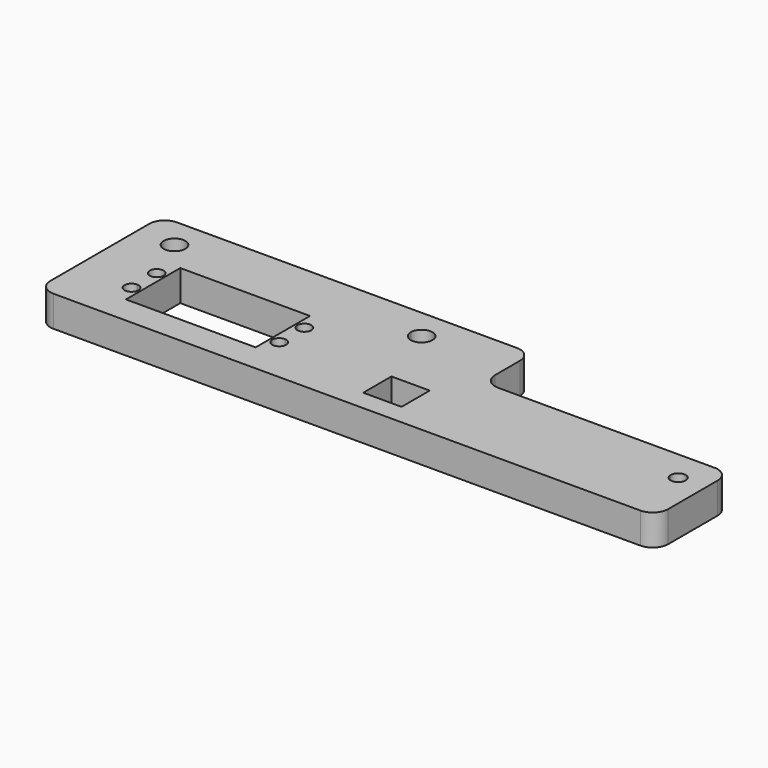
from build123d import *

# Parameters (mm, degrees)
F0_W      = 200
F0_H      = 50
F1_DEPTH  = 10
F2_W      = 42
F2_H      = 22
F3_DEPTH  = 10.001
F5_DEPTH  = 10.001
F7_DEPTH  = 10.001
F8_R      = 5
F11_W     = 80
F11_H     = 20
F9_W      = 12.4
F9_H      = 11.4
F12_DEPTH = 10.001
F13_R     = 5


with BuildPart() as f1:
    # F0 (on Top) → F1 (new body)
    with BuildSketch(Plane.XY):
        Rectangle(F0_W, F0_H)
    extrude(amount=F1_DEPTH)

    # F2 (on face) → F3 (cut, through all)
    with BuildSketch(Plane.XY.offset(10)):
        with Locations((-57.7500068545, -5)):
            Rectangle(F2_W, F2_H)
    extrude(amount=-F3_DEPTH, mode=Mode.SUBTRACT)

    # F4 (on face) → F5 (cut, through all)
    with BuildSketch(Plane.XY.offset(10)):
        with BuildLine():
            Line((-81.6500068545, -2.15), (-81.6500068545, 0.1))
            Line((-81.6500068545, 0.1), (-79.4000068545, 0.1))
            ThreePointArc((-79.4000068545, 0.1), (-83.2409971122, 1.6909902577), (-81.6500068545, -2.15))
        make_face()
        with BuildLine():
            Line((-79.4000068545, 0.1), (-81.6500068545, 0.1))
            Line((-81.6500068545, 0.1), (-81.6500068545, -2.15))
            ThreePointArc((-81.6500068545, -2.15), (-80.0590165969, -1.4909902577), (-79.4000068545, 0.1))
        make_face()
        with BuildLine():
            Line((-81.6500068545, -10.1), (-81.6500068545, -7.85))
            ThreePointArc((-81.6500068545, -7.85), (-83.2409971122, -11.6909902577), (-79.4000068545, -10.1))
            Line((-79.4000068545, -10.1), (-81.6500068545, -10.1))
        make_face()
        with BuildLine():
            ThreePointArc((-79.4000068545, -10.1), (-80.0590165969, -8.5090097423), (-81.6500068545, -7.85))
            Line((-81.6500068545, -7.85), (-81.6500068545, -10.1))
            Line((-81.6500068545, -10.1), (-79.4000068545, -10.1))
        make_face()
        with BuildLine():
            Line((-33.8500068545, 0.1), (-36.1000068545, 0.1))
            ThreePointArc((-36.1000068545, 0.1), (-35.4409971122, -1.4909902577), (-33.8500068545, -2.15))
            Line((-33.8500068545, -2.15), (-33.8500068545, 0.1))
        make_face()
        with BuildLine():
            ThreePointArc((-31.6000068545, 0.1), (-33.8500068545, 2.35), (-36.1000068545, 0.1))
            Line((-36.1000068545, 0.1), (-33.8500068545, 0.1))
            Line((-33.8500068545, 0.1), (-33.8500068545, -2.15))
            ThreePointArc((-33.8500068545, -2.15), (-32.2590165969, -1.4909902577), (-31.6000068545, 0.1))
        make_face()
        with BuildLine():
            ThreePointArc((-33.8500068545, -7.85), (-35.4409971122, -8.5090097423), (-36.1000068545, -10.1))
            Line((-36.1000068545, -10.1), (-33.8500068545, -10.1))
            Line((-33.8500068545, -10.1), (-33.8500068545, -7.85))
        make_face()
        with BuildLine():
            Line((-33.8500068545, -10.1), (-36.1000068545, -10.1))
            ThreePointArc((-36.1000068545, -10.1), (-33.8500068545, -12.35), (-31.6000068545, -10.1))
            ThreePointArc((-31.6000068545, -10.1), (-32.2590165969, -8.5090097423), (-33.8500068545, -7.85))
            Line((-33.8500068545, -7.85), (-33.8500068545, -10.1))
        make_face()
    extrude(amount=-F5_DEPTH, mode=Mode.SUBTRACT)

    # F6 (on face) → F7 (cut, through all)
    with BuildSketch(Plane.XY.offset(10)):
        with BuildLine():
            Line((-87.8187507391, 11.5), (-87.8187507391, 15))
            Line((-87.8187507391, 15), (-84.3187507391, 15))
            ThreePointArc((-84.3187507391, 15), (-90.2936244733, 17.4748737342), (-87.8187507391, 11.5))
        make_face()
        with BuildLine():
            Line((-84.3187507391, 15), (-87.8187507391, 15))
            Line((-87.8187507391, 15), (-87.8187507391, 11.5))
            ThreePointArc((-87.8187507391, 11.5), (-85.3438770049, 12.5251262658), (-84.3187507391, 15))
        make_face()
        with BuildLine():
            Line((-7.8187507391, 15), (-11.3187507391, 15))
            ThreePointArc((-11.3187507391, 15), (-10.2936244733, 12.5251262658), (-7.8187507391, 11.5))
            Line((-7.8187507391, 11.5), (-7.8187507391, 15))
        make_face()
        with BuildLine():
            ThreePointArc((-4.3187507391, 15), (-7.8187507391, 18.5), (-11.3187507391, 15))
            Line((-11.3187507391, 15), (-7.8187507391, 15))
            Line((-7.8187507391, 15), (-7.8187507391, 11.5))
            ThreePointArc((-7.8187507391, 11.5), (-5.3438770049, 12.5251262658), (-4.3187507391, 15))
        make_face()
    extrude(amount=-F7_DEPTH, mode=Mode.SUBTRACT)

    # F8
    f8_edges = [f1.edges().sort_by_distance(p)[0] for p in [
        (-100, 25, 5),
        (-100, -25, 5),
        (100, 25, 5),
        (100, -25, 5),
    ]]
    fillet(f8_edges, radius=F8_R)

    # F11 (on face) + F10 (on face) + F9 (on face) → F12 (cut, through all)
    with BuildSketch(Plane.XY.offset(10)):
        with Locations((60, 15)):
            Rectangle(F11_W, F11_H)
    with BuildSketch(Plane.XY.offset(10)):
        with BuildLine():
            ThreePointArc((93.6749931455, -5), (91.2499931455, -2.575), (88.8249931455, -5))
            Line((88.8249931455, -5), (91.2499931455, -5))
            Line((91.2499931455, -5), (91.2499931455, -7.425))
            ThreePointArc((91.2499931455, -7.425), (92.9647270898, -6.7147339444), (93.6749931455, -5))
        make_face()
        with BuildLine():
            Line((91.2499931455, -5), (88.8249931455, -5))
            ThreePointArc((88.8249931455, -5), (89.5352592011, -6.7147339444), (91.2499931455, -7.425))
            Line((91.2499931455, -7.425), (91.2499931455, -5))
        make_face()
    with BuildSketch(Plane.XY.offset(10)):
        with Locations((6.2, -12.7)):
            Rectangle(F9_W, F9_H)
    extrude(amount=-F12_DEPTH, mode=Mode.SUBTRACT)

    # F13
    f13_edges = [f1.edges().sort_by_distance(p)[0] for p in [
        (20, 25, 5),
        (20, 5, 5),
        (100, 5, 5),
    ]]
    fillet(f13_edges, radius=F13_R)


solid = f1.part
